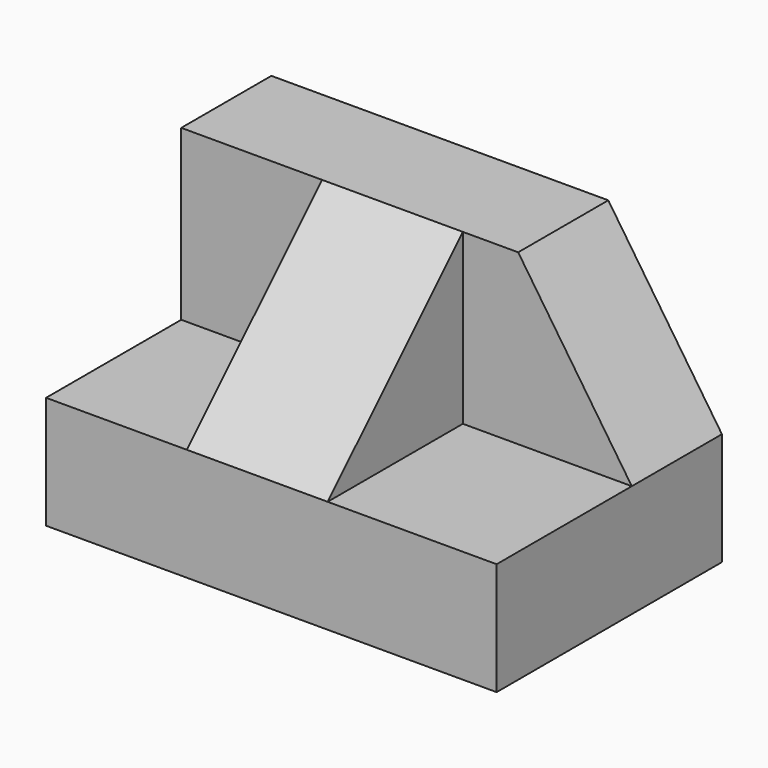
from build123d import *

# Parameters (mm, degrees)
F0_W     = 31.75
F0_H     = 31.75
F1_DEPTH = 50.8
F2_W     = 19.05
F2_H     = 19.05
F3_DEPTH = 19.05
F4_W     = 15.875
F4_H     = 19.05
F5_DEPTH = 19.05
F7_DEPTH = 25.4
F9_DEPTH = 12.7


with BuildPart() as f1:
    # F0 (on Right) → F1 (new body)
    with BuildSketch(Plane.YZ):
        with Locations((15.875, 15.875)):
            Rectangle(F0_W, F0_H)
    extrude(amount=F1_DEPTH)

    # F2 (on face) → F3 (cut)
    with BuildSketch(Plane.XZ):
        with Locations((41.275, 22.225)):
            Rectangle(F2_W, F2_H)
    extrude(amount=-F3_DEPTH, mode=Mode.SUBTRACT)

    # F4 (on face) → F5 (cut)
    with BuildSketch(Plane.XZ):
        with Locations((7.9375, 22.225)):
            Rectangle(F4_W, F4_H)
    extrude(amount=-F5_DEPTH, mode=Mode.SUBTRACT)

    # F6 (on face) → F7 (cut)
    with BuildSketch(Plane.YZ.offset(31.75)):
        Polygon((0, 31.75), (0, 12.7), (19.05, 31.75), align=None)
    extrude(amount=-F7_DEPTH, mode=Mode.SUBTRACT)

    # F8 (on face) → F9 (cut)
    with BuildSketch(Plane.XZ.offset(-19.05)):
        Polygon((50.8, 12.7), (50.8, 31.75), (37.9892475903, 31.75), align=None)
    extrude(amount=-F9_DEPTH, mode=Mode.SUBTRACT)


solid = f1.part
